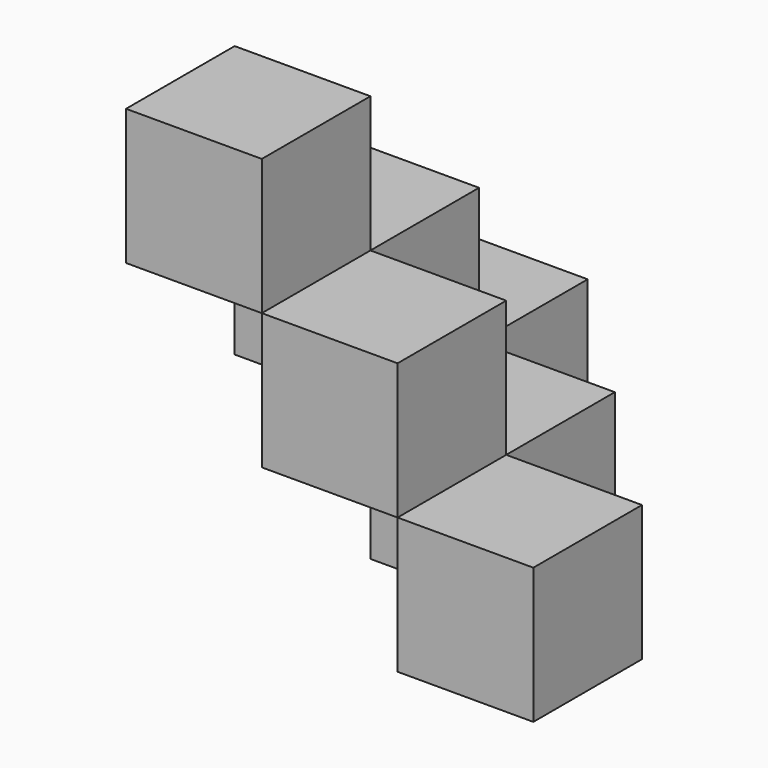
from build123d import *

# Parameters (mm, degrees)
BOX_W        = 10
BOX_H        = 10
BOX_DEPTH    = 10
BOX001_W     = 10
BOX001_H     = 10
BOX001_DEPTH = 10
BOX002_W     = 10
BOX002_H     = 10
BOX002_DEPTH = 10
BOX003_W     = 10
BOX003_H     = 10
BOX003_DEPTH = 10
BOX004_W     = 10
BOX004_H     = 10
BOX004_DEPTH = 10
BOX005_W     = 10
BOX005_H     = 10
BOX005_DEPTH = 10


with BuildPart() as box:
    # Box → Box (new body)
    with BuildSketch(Plane.XY.offset(10)):
        with Locations((5, 5)):
            Rectangle(BOX_W, BOX_H)
    extrude(amount=BOX_DEPTH)


with BuildPart() as box001:
    # Box001 → Box001 (new body)
    with BuildSketch(Plane(origin=(10, 0, 0), x_dir=(1, 0, 0), z_dir=(0, 0, 1))):
        with Locations((5, 5)):
            Rectangle(BOX001_W, BOX001_H)
    extrude(amount=BOX001_DEPTH)


with BuildPart() as cub:
    # Box002 → Box002 (new body)
    with BuildSketch(Plane(origin=(0, 10, 0), x_dir=(1, 0, 0), z_dir=(0, 0, 1))):
        with Locations((5, 5)):
            Rectangle(BOX002_W, BOX002_H)
    extrude(amount=BOX002_DEPTH)


with BuildPart() as cub001:
    # Box003 → Box003 (new body)
    with BuildSketch(Plane(origin=(-10, 10, 10), x_dir=(1, 0, 0), z_dir=(0, 0, 1))):
        with Locations((5, 5)):
            Rectangle(BOX003_W, BOX003_H)
    extrude(amount=BOX003_DEPTH)


with BuildPart() as cub002:
    # Box004 → Box004 (new body)
    with BuildSketch(Plane(origin=(-10, 20, 0), x_dir=(1, 0, 0), z_dir=(0, 0, 1))):
        with Locations((5, 5)):
            Rectangle(BOX004_W, BOX004_H)
    extrude(amount=BOX004_DEPTH)


with BuildPart() as cub003:
    # Box005 → Box005 (new body)
    with BuildSketch(Plane(origin=(-10, 0, 20), x_dir=(1, 0, 0), z_dir=(0, 0, 1))):
        with Locations((5, 5)):
            Rectangle(BOX005_W, BOX005_H)
    extrude(amount=BOX005_DEPTH)


solid = Compound([box.part, box001.part, cub.part, cub001.part, cub002.part, cub003.part])
